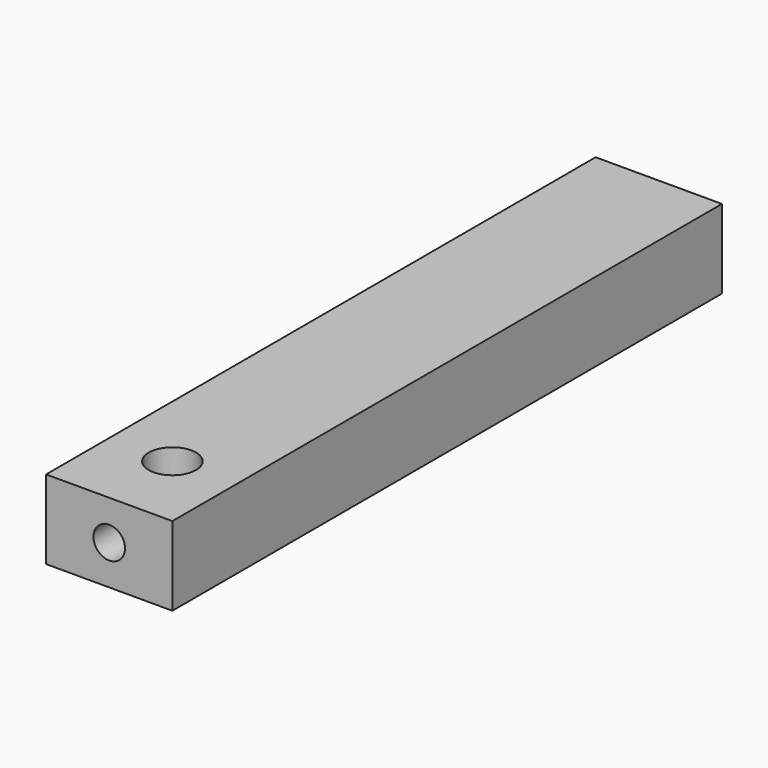
from build123d import *

# Parameters (mm, degrees)
F0_W          = 25.4
F0_H          = 15.875
F1_DEPTH      = 69.05625
F1_DEPTH_BACK = 69.05625
F2_R          = 4.7625
F3_DEPTH      = 15.876
F4_R          = 3.175
F5_DEPTH      = 25.4


with BuildPart() as f1:
    # F0 (on Front) → F1 (new body, two sides)
    with BuildSketch(Plane.XZ) as f1_sk:
        Rectangle(F0_W, F0_H)
    extrude(amount=-F1_DEPTH)
    extrude(f1_sk.sketch, amount=F1_DEPTH_BACK)

    # F2 (on face) → F3 (cut, through all)
    with BuildSketch(Plane.XY.offset(7.9375)):
        with Locations((0, -53.18125)):
            Circle(F2_R)
    extrude(amount=-F3_DEPTH, mode=Mode.SUBTRACT)

    # F4 (on face) → F5 (cut)
    with BuildSketch(Plane.XZ.offset(69.05625)):
        Circle(F4_R)
    extrude(amount=-F5_DEPTH, mode=Mode.SUBTRACT)


solid = f1.part
